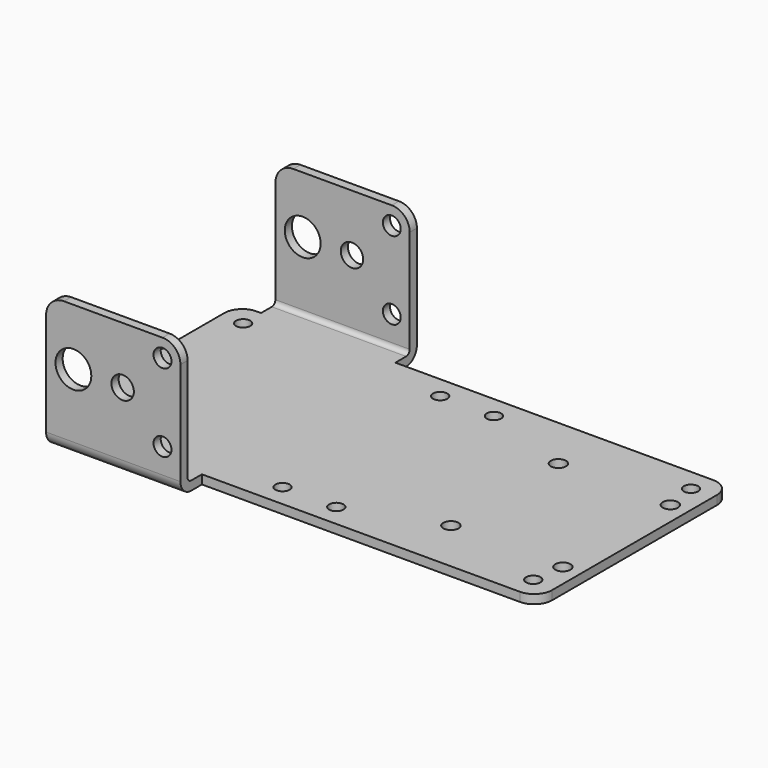
from build123d import *

# Parameters (mm, degrees)
SKETCH003_R      = 1.6
SKETCH003_R_2    = 1.7
EXTRUDE003_DEPTH = 10
SKETCH002_R      = 4
SKETCH002_R_2    = 2.5
SKETCH002_R_3    = 2
EXTRUDE002_DEPTH = 60
SKETCH001_W      = 79.47419
SKETCH001_H      = 9.458714
SKETCH001_W_2    = 5
EXTRUDE001_DEPTH = 40
EXTRUDE_DEPTH    = 110
FILLET_R         = 4
FILLET001_R      = 4


with BuildPart() as extrude003:
    # Sketch003 → Extrude003 (new body)
    with BuildSketch(Plane.XY):
        with Locations((5, 22)):
            Circle(SKETCH003_R)
        with Locations((49, 22)):
            Circle(SKETCH003_R)
        with Locations((61, 22)):
            Circle(SKETCH003_R)
        with Locations((105, 22)):
            Circle(SKETCH003_R)
        with Locations((81, 15)):
            Circle(SKETCH003_R_2)
        with Locations((106, 15)):
            Circle(SKETCH003_R_2)
    extrude(amount=EXTRUDE003_DEPTH)


with BuildPart() as fusion001:
    # Part__Mirroring001: instance of Extrude003
    add(extrude003.part.mirror(Plane(origin=(0, 0, 0), x_dir=(1, 0, 0), z_dir=(0, 1, 0))))

    # Fusion001: union Extrude003
    add(extrude003.part)


with BuildPart() as extrude002:
    # Sketch002 → Extrude002 (new body, symmetric)
    with BuildSketch(Plane.XZ):
        with Locations((11.1, 17.3)):
            Circle(SKETCH002_R)
        with Locations((22.1, 17.3)):
            Circle(SKETCH002_R_2)
        with Locations((31, 8.6)):
            Circle(SKETCH002_R_3)
        with Locations((31, 26)):
            Circle(SKETCH002_R_3)
    extrude(amount=EXTRUDE002_DEPTH, both=True)


with BuildPart() as extrude001:
    # Sketch001 → Extrude001 (new body)
    with BuildSketch(Plane.XY):
        with Locations((74.737095, 31.729357)):
            Rectangle(SKETCH001_W, SKETCH001_H)
        with Locations((2.5, 31.729357)):
            Rectangle(SKETCH001_W_2, SKETCH001_H)
    extrude(amount=EXTRUDE001_DEPTH)


with BuildPart() as part_mirroring:
    # Part__Mirroring: instance of Extrude001
    add(extrude001.part.mirror(Plane(origin=(0, 0, 0), x_dir=(1, 0, 0), z_dir=(0, 1, 0))))


with BuildPart() as fusion:
    # Fusion base: copy of Extrude001
    add(extrude001.part)

    # Fusion: union Part__Mirroring
    add(part_mirroring.part)


with BuildPart() as fillet001:
    # Sketch → Extrude (new body)
    with BuildSketch(Plane.YZ):
        with BuildLine():
            Line((-33, 30), (-33, 3))
            ThreePointArc((-33, 3), (-32.12132, 0.87868), (-30, 0))
            Line((-30, 0), (30, 0))
            ThreePointArc((30, 0), (32.12132, 0.87868), (33, 3))
            Line((33, 3), (33, 30))
            Line((33, 30), (31, 30))
            Line((31, 30), (31, 3))
            ThreePointArc((30, 2), (30.707107, 2.292893), (31, 3))
            Line((30, 2), (-30, 2))
            ThreePointArc((-31, 3), (-30.707107, 2.292893), (-30, 2))
            Line((-31, 3), (-31, 30))
            Line((-31, 30), (-33, 30))
        make_face()
    extrude(amount=EXTRUDE_DEPTH)

    # Cut: cut Fusion
    add(fusion.part, mode=Mode.SUBTRACT)

    # Cut001: cut Extrude002
    add(extrude002.part, mode=Mode.SUBTRACT)

    # Cut002: cut Fusion001
    add(fusion001.part, mode=Mode.SUBTRACT)

    # Fillet
    fillet_edges = [fillet001.edges().sort_by_distance(p)[0] for p in [
        (0, -27, 1),
        (110, -27, 1),
        (0, 27, 1),
        (110, 27, 1),
    ]]
    fillet(fillet_edges, radius=FILLET_R)

    # Fillet001
    fillet001_edges = [fillet001.edges().sort_by_distance(p)[0] for p in [
        (5, -32, 30),
        (35, -32, 30),
        (5, 32, 30),
        (35, 32, 30),
    ]]
    fillet(fillet001_edges, radius=FILLET001_R)


solid = fillet001.part
